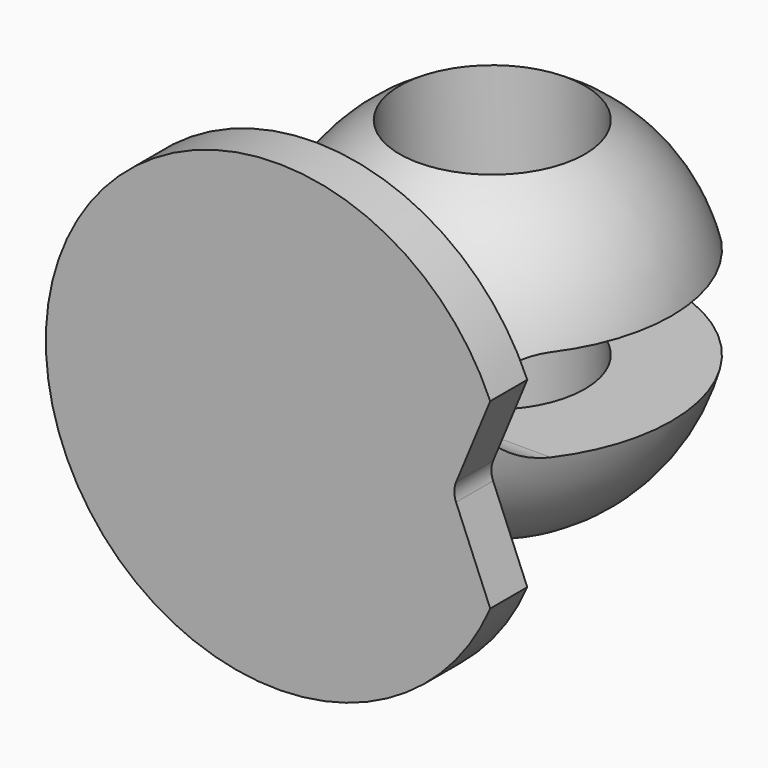
from build123d import *

# Parameters (mm, degrees)
F1_R      = 6.35
F2_DEPTH  = 12.7
F5_R      = 15.875
F6_DEPTH  = 3.175
F8_R      = 7.1374
F9_DEPTH  = 7.9502
F13_DEPTH = 25.4
F15_R     = 1.5875
F17_DEPTH = 3.175


with BuildPart() as f2:
    # F1 (on Top) → F2 (new body, symmetric)
    with BuildSketch(Plane.XY):
        Circle(F1_R)
    extrude(amount=F2_DEPTH, both=True)


with BuildPart() as f3:
    # F0 (on Front) → F3 (revolve)
    with BuildSketch(Plane.XZ):
        with BuildLine():
            Line((0, 12.7), (0, -12.7))
            ThreePointArc((0, -12.7), (12.7, 0), (0, 12.7))
        make_face()
    revolve(axis=Axis((0, 0, 0), (0, 0, 1)))

    # F4: cut F2
    add(f2.part, mode=Mode.SUBTRACT)


with BuildPart() as f6:
    # F5 (on Front) → F6 (new body)
    with BuildSketch(Plane.XZ):
        Circle(F5_R)
    extrude(amount=F6_DEPTH)


with BuildPart() as f6_1:
    # F7: moved
    add(f6.part.moved(Location((0, -15.24, 0))))


with BuildPart() as f9:
    # F8 (on face) → F9 (new body)
    with BuildSketch(Plane.XZ.offset(18.415)):
        Circle(F8_R)
    extrude(amount=F9_DEPTH)


with BuildPart() as f9_1:
    # F10: moved
    add(f9.part.moved(Location((0, 7.9502, 0))))


with BuildPart() as f3_1:
    add(f3.part)

    # F11: union F6, F9
    add(f6_1.part)
    add(f9_1.part)


with BuildPart() as f13:
    # F12 (on Right) → F13 (new body, symmetric)
    with BuildSketch(Plane.YZ):
        with BuildLine():
            Line((27.5953571579, 3.175), (-7.3296428421, 3.175))
            ThreePointArc((-7.3296428421, 3.175), (-10.5046428421, 0), (-7.3296428421, -3.175))
            Line((-7.3296428421, -3.175), (27.5953571579, -3.175))
            Line((27.5953571579, -3.175), (27.5953571579, 3.175))
        make_face()
    extrude(amount=F13_DEPTH, both=True)


with BuildPart() as f3_2:
    add(f3_1.part)

    # F14: cut F13
    add(f13.part, mode=Mode.SUBTRACT)

    # F15
    f15_edges = [f3_2.edges().sort_by_distance(p)[0] for p in [
        (-7.1374, -15.24, 0),
    ]]
    fillet(f15_edges, radius=F15_R)


with BuildPart() as f17:
    # F16 (on face) → F17 (new body, symmetric)
    with BuildSketch(Plane.XZ.offset(18.415)):
        with BuildLine():
            Line((17.810190469, 14.0325875707), (12.2493412421, 0.6075099489))
            ThreePointArc((12.2493412421, 0.6075099489), (12.1285, 0), (12.2493412421, -0.6075099489))
            Line((12.2493412421, -0.6075099489), (17.810190469, -14.0325875707))
            Line((17.810190469, -14.0325875707), (17.810190469, 14.0325875707))
        make_face()
    extrude(amount=F17_DEPTH, both=True)


with BuildPart() as f3_3:
    add(f3_2.part)

    # F18: cut F17
    add(f17.part, mode=Mode.SUBTRACT)


solid = f3_3.part
